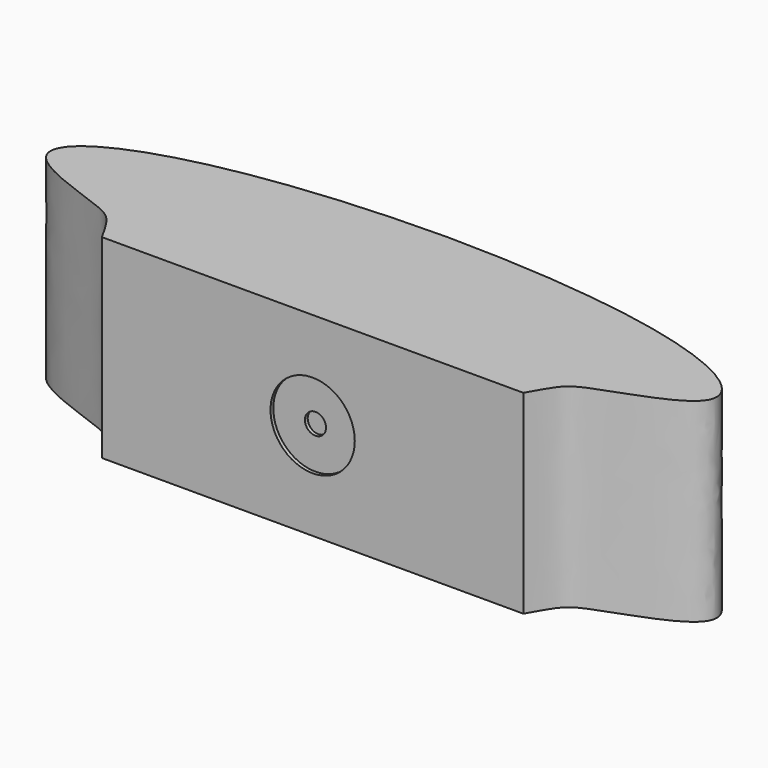
from build123d import *

# Parameters (mm, degrees)
F1_DEPTH = 27.686
F2_R     = 1.5
F3_DEPTH = 1
F5_R     = 6
F6_DEPTH = 0.5


with BuildPart() as f1:
    # F0 (on Top) → F1 (new body)
    with BuildSketch(Plane.XY):
        with BuildLine():
            add(Edge.make_bspline(
                [(47, 12.6621776968), (81.0029846206, 12.4439522624), (105.8857589942, 1.0014625109), (79.8397408889, -5.9392970144), (78.9787004684, -7.8286600721), (77, -11.3378223032)],
                knots=[0, 0, 0, 0, 0.5228488812, 0.7996784343, 1, 1, 1, 1], degree=3))
            add(Edge.make_bspline(
                [(47, 12.6621776968), (12.9970153794, 12.4439522624), (-11.8857589942, 1.0014625109), (14.1602591111, -5.9392970144), (15.0212995316, -7.8286600721), (17, -11.3378223032)],
                knots=[0, 0, 0, 0, 0.5228488812, 0.7996784343, 1, 1, 1, 1], degree=3))
            Line((17, -11.3378223032), (47, -11.3378223032))
            Line((47, -11.3378223032), (77, -11.3378223032))
        make_face()
    extrude(amount=F1_DEPTH)

    # F2 (on face) → F3 (cut)
    with BuildSketch(Plane.XZ.offset(11.3378223032)):
        with Locations((47, 13.843)):
            Circle(F2_R)
    extrude(amount=-F3_DEPTH, mode=Mode.SUBTRACT)

    # F5 (on face) → F6 (cut)
    with BuildSketch(Plane.XZ.offset(11.3378223032)):
        with Locations((47, 13.843)):
            Circle(F5_R)
    extrude(amount=-F6_DEPTH, mode=Mode.SUBTRACT)


solid = f1.part
